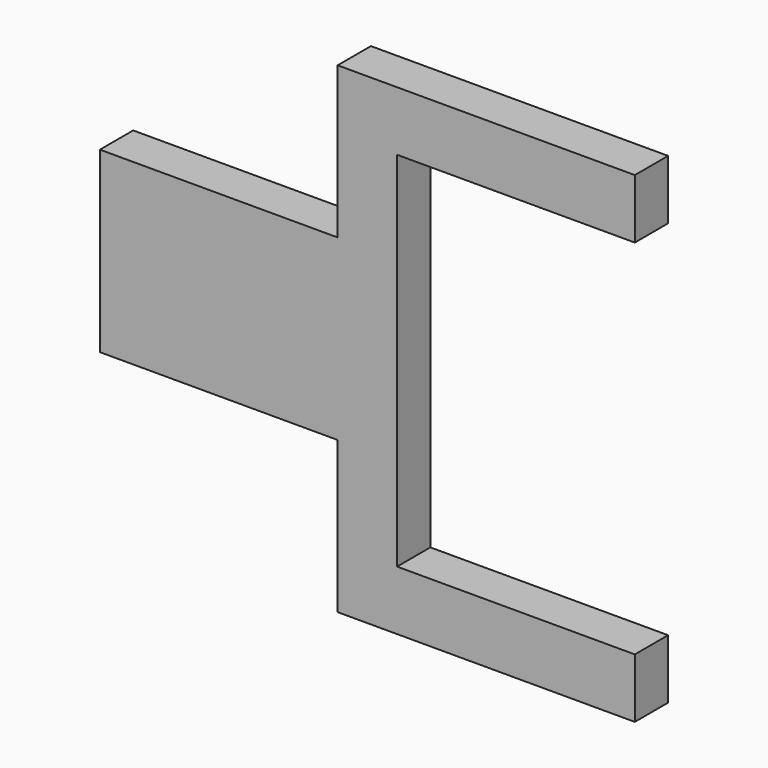
from build123d import *

# Parameters (mm, degrees)
F0_W     = 40
F0_H     = 30
F0_H_2   = 10
F1_DEPTH = 3.5
F3_START = -10
F3_DEPTH = 30


with BuildPart() as f1:
    # F0 (on Front) → F1 (new body, symmetric)
    with BuildSketch(Plane.XZ):
        with Locations((-20, 0)):
            Rectangle(F0_W, F0_H)
        Polygon((0, 40.5), (0, 15), (0, -15), (0, -40.5), (10, -40.5), (10, -30.5), (10, 30.5), (10, 40.5), align=None)
        with Locations((30, 35.5)):
            Rectangle(F0_W, F0_H_2)
        with Locations((30, -35.5)):
            Rectangle(F0_W, F0_H_2)
    extrude(amount=F1_DEPTH, both=True)

    # F2 (on Right) → F3 (cut)
    with BuildSketch(Plane.YZ.offset(F3_START)):
        with BuildLine():
            ThreePointArc((-1.5329709717, 2.1), (-1.1777681167, -2.3179435418), (2.6, 0))
            ThreePointArc((2.6, 0), (2.3179435418, 1.1777681167), (1.5329709717, 2.1))
            Line((1.5329709717, 2.1), (-1.5329709717, 2.1))
        make_face()
    extrude(amount=-F3_DEPTH, mode=Mode.SUBTRACT)


solid = f1.part
